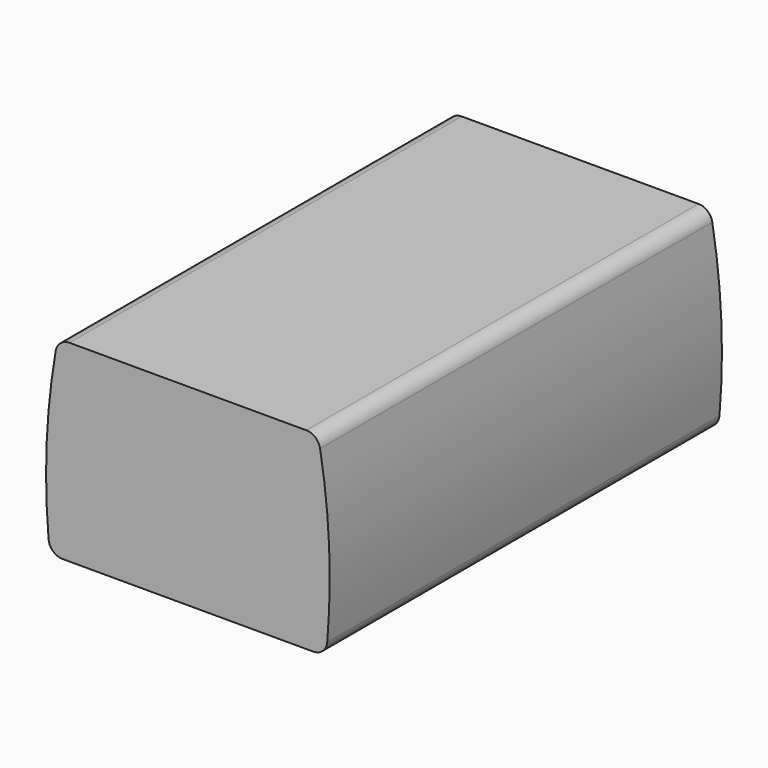
from build123d import *

# Parameters (mm, degrees)
F1_DEPTH = 7000


with BuildPart() as f1:
    # F0 (on Front) → F1 (new body)
    with BuildSketch(Plane.XZ):
        with BuildLine():
            ThreePointArc((-1989.226635, -1192.57122), (-1925.066198, -1322.502956), (-1790, -1375))
            Line((-1790, -1375), (0, -1375))
            Line((0, -1375), (1790, -1375))
            ThreePointArc((1790, -1375), (1925.066198, -1322.502956), (1989.226635, -1192.57122))
            ThreePointArc((1989.226635, -1192.57122), (2016.712793, 11.710421), (1887.49222, 1209.354695))
            ThreePointArc((1887.49222, 1209.354695), (1819.168191, 1328.086477), (1690.464925, 1375))
            Line((1690.464925, 1375), (0, 1375))
            Line((0, 1375), (-1690.464925, 1375))
            ThreePointArc((-1690.464925, 1375), (-1819.168191, 1328.086477), (-1887.49222, 1209.354695))
            ThreePointArc((-1887.49222, 1209.354695), (-2016.712793, 11.710421), (-1989.226635, -1192.57122))
        make_face()
    extrude(amount=F1_DEPTH)


solid = f1.part
